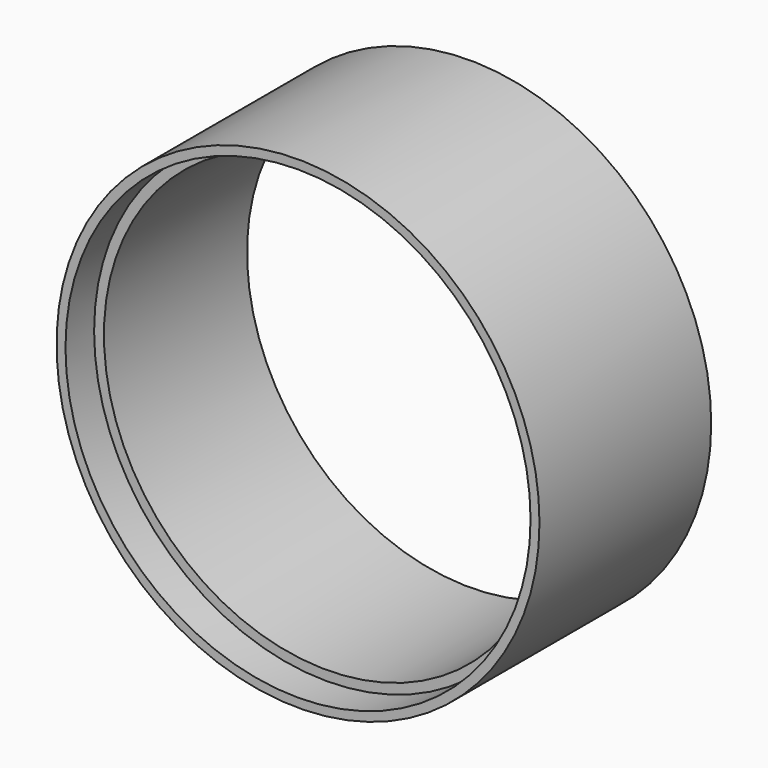
from build123d import *

# Parameters (mm, degrees)
F0_R        = 67.5
F0_R_2      = 65
F1_DEPTH    = 10
F1_FACE_R   = 67.5
F1_FACE_R_2 = 65
F2_R        = 67.5
F2_R_2      = 62.25
F3_DEPTH    = 50


with BuildPart() as f1:
    # F0 (on Front) → F1 (new body)
    with BuildSketch(Plane.XZ):
        Circle(F0_R)
        Circle(F0_R_2, mode=Mode.SUBTRACT)
    extrude(amount=F1_DEPTH)

    # F1_face (on face) + F2 (on Front) → F3 (join)
    with BuildSketch(Plane.XZ.offset(10)):
        Circle(F1_FACE_R)
        Circle(F1_FACE_R_2, mode=Mode.SUBTRACT)
    with BuildSketch(Plane.XZ):
        Circle(F2_R)
        Circle(F2_R_2, mode=Mode.SUBTRACT)
    extrude(amount=F3_DEPTH)


solid = f1.part
